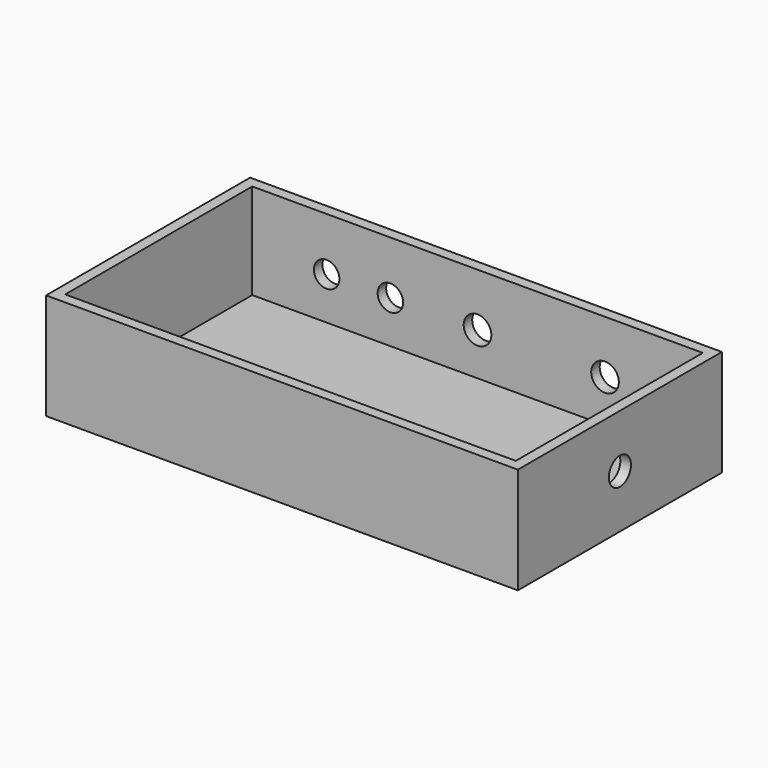
from build123d import *

# Parameters (mm, degrees)
F0_W     = 111
F0_H     = 60
F1_DEPTH = 25
F2_T     = -2.5
F3_R     = 3.25
F4_DEPTH = 55.5
F5_R     = 3.25
F6_DEPTH = 30
F7_R     = 3
F8_DEPTH = 30


with BuildPart() as f1:
    # F0 (on Top) → F1 (new body)
    with BuildSketch(Plane.XY):
        Rectangle(F0_W, F0_H)
    extrude(amount=F1_DEPTH)

    # F2
    f2_openings = [f1.faces().sort_by_distance(p)[0] for p in [
        (0, 0, 25),
    ]]
    offset(amount=F2_T, openings=f2_openings)

    # F3 (on Right) → F4 (cut, through all)
    with BuildSketch(Plane.YZ):
        with Locations((0, 12.5)):
            Circle(F3_R)
    extrude(amount=F4_DEPTH, mode=Mode.SUBTRACT)

    # F5 (on Front) → F6 (cut, through all)
    with BuildSketch(Plane.XZ):
        with Locations((0, 12.5)):
            Circle(F5_R)
        with Locations((30, 12.5)):
            Circle(F5_R)
    extrude(amount=-F6_DEPTH, mode=Mode.SUBTRACT)

    # F7 (on Front) → F8 (cut, through all)
    with BuildSketch(Plane.XZ):
        with Locations((-35.5, 12.5)):
            Circle(F7_R)
        with Locations((-20.5, 12.5)):
            Circle(F7_R)
    extrude(amount=-F8_DEPTH, mode=Mode.SUBTRACT)


solid = f1.part
